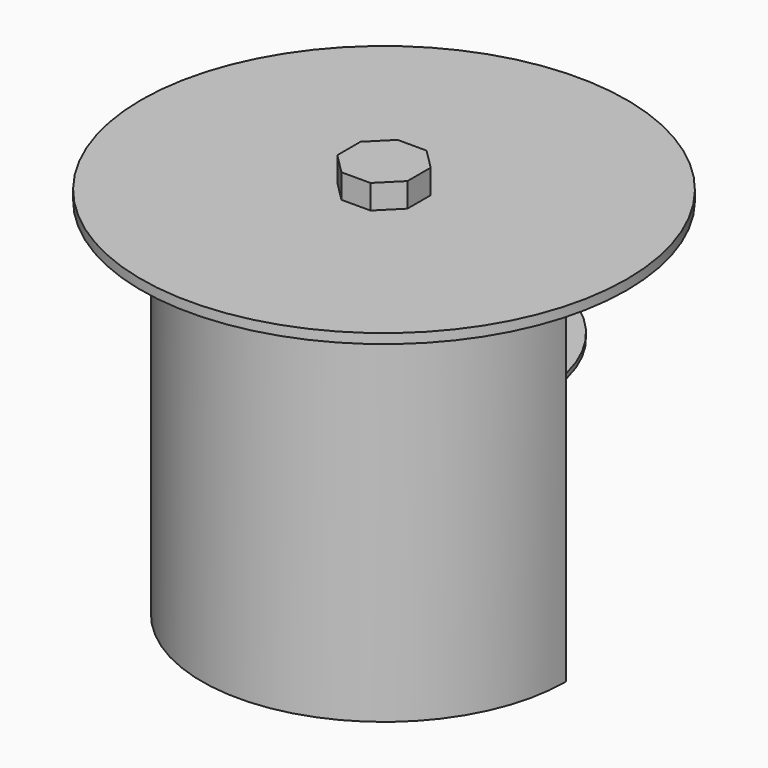
from build123d import *

# Parameters (mm, degrees)
F0_R      = 37.5
F1_DEPTH  = 75
F2_R      = 35
F3_DEPTH  = 70
F4_W      = 148.646176
F4_H      = 74.832693
F5_DEPTH  = 46
F7_DEPTH  = 35
F7_FACE_R = 2.5
F8_DEPTH  = 25
F9_DEPTH  = 35
F10_DEPTH = 25
F12_R     = 25
F13_DEPTH = 1
F15_R     = 32.5
F16_DEPTH = 1
F17_R     = 50
F18_DEPTH = 2
F21_DEPTH = 5


with BuildPart() as f1:
    # F0 (on Top) → F1 (new body)
    with BuildSketch(Plane.XY):
        Circle(F0_R)
    extrude(amount=F1_DEPTH)

    # F2 (on face) → F3 (cut)
    with BuildSketch(Plane.XY.offset(75)):
        Circle(F2_R)
    extrude(amount=-F3_DEPTH, mode=Mode.SUBTRACT)

    # F4 (on Front) → F5 (cut)
    with BuildSketch(Plane.XZ):
        with Locations((0.537515, 37.416346)):
            Rectangle(F4_W, F4_H)
    extrude(amount=-F5_DEPTH, mode=Mode.SUBTRACT)

    # F6 (on Right) → F7 (join)
    with BuildSketch(Plane.YZ):
        with BuildLine():
            ThreePointArc((0, 17.5), (1.767767, 18.232233), (2.5, 20))
            ThreePointArc((2.5, 20), (-1.767767, 21.767767), (0, 17.5))
        make_face()
    extrude(amount=F7_DEPTH)

    # F7_face (on face) → F8 (cut)
    with BuildSketch(Plane(origin=(0, 0, 20), x_dir=(0, 1, 0), z_dir=(-1, 0, 0))):
        Circle(F7_FACE_R)
    extrude(amount=-F8_DEPTH, mode=Mode.SUBTRACT)

    # F6 (on Right) → F9 (join)
    with BuildSketch(Plane.YZ):
        with BuildLine():
            ThreePointArc((0, 17.5), (1.767767, 18.232233), (2.5, 20))
            ThreePointArc((2.5, 20), (-1.767767, 21.767767), (0, 17.5))
        make_face()
    extrude(amount=-F9_DEPTH)

    # F6 (on Right) → F10 (cut)
    with BuildSketch(Plane.YZ):
        with BuildLine():
            ThreePointArc((0, 17.5), (1.767767, 18.232233), (2.5, 20))
            ThreePointArc((2.5, 20), (-1.767767, 21.767767), (0, 17.5))
        make_face()
    extrude(amount=-F10_DEPTH, mode=Mode.SUBTRACT)

    # F12 (on offset) → F13 (join)
    with BuildSketch(Plane.XY.offset(20)):
        Circle(F12_R)
    extrude(amount=F13_DEPTH)

    # F17 (on face) → F18 (join)
    with BuildSketch(Plane.XY.offset(75)):
        Circle(F17_R)
    extrude(amount=F18_DEPTH)


with BuildPart() as f16:
    # F15 (on offset) → F16 (new body)
    with BuildSketch(Plane.XY.offset(50)):
        Circle(F15_R)
    extrude(amount=F16_DEPTH)


with BuildPart() as f21:
    # F20 (on offset) → F21 (new body)
    with BuildSketch(Plane.XY.offset(77.1)):
        Polygon((7.219949, -2.990601), (7.219949, 2.990601), (2.990601, 7.219949), (-2.990601, 7.219949), (-7.219949, 2.990601), (-7.219949, -2.990601), (-2.990601, -7.219949), (2.990601, -7.219949), align=None)
    extrude(amount=F21_DEPTH)


solid = Compound([f1.part, f16.part, f21.part])
